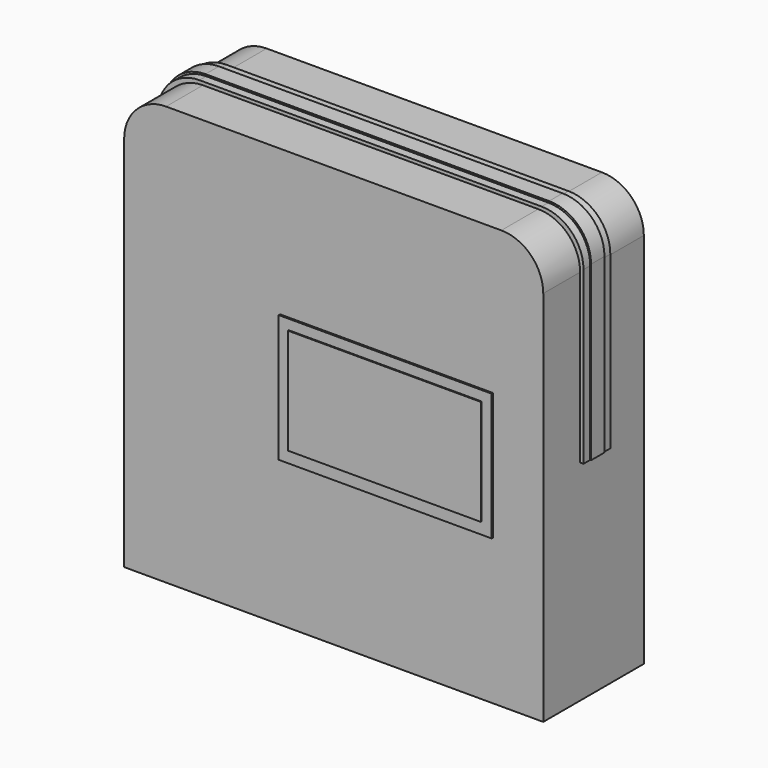
from build123d import *

# Parameters (mm, degrees)
F0_W      = 250
F0_H      = 75
F2_DEPTH  = 125
F1_W      = 254
F1_H      = 20
F3_DEPTH  = 127
F4_R      = 25
F5_W      = 255
F5_H      = 10
F6_DEPTH  = 128
F7_R      = 25
F8_W      = 127
F8_H      = 76
F9_DEPTH  = 1
F11_DEPTH = 0.6


with BuildPart() as f2:
    # F0 (on Top) → F2 (new body, symmetric)
    with BuildSketch(Plane.XY):
        Rectangle(F0_W, F0_H)
    extrude(amount=F2_DEPTH, both=True)

    # F1 (on Top) → F3 (join)
    with BuildSketch(Plane.XY):
        Rectangle(F1_W, F1_H)
    extrude(amount=F3_DEPTH)

    # F4
    f4_edges = [f2.edges().sort_by_distance(p)[0] for p in [
        (-127, 0, 127),
        (-125, 23.75, 125),
        (-125, -23.75, 125),
        (125, 23.75, 125),
        (125, -23.75, 125),
        (127, 0, 127),
    ]]
    fillet(f4_edges, radius=F4_R)

    # F5 (on Top) → F6 (join)
    with BuildSketch(Plane.XY):
        Rectangle(F5_W, F5_H)
    extrude(amount=F6_DEPTH)

    # F7
    f7_edges = [f2.edges().sort_by_distance(p)[0] for p in [
        (-127.5, 0, 128),
        (127.5, 0, 128),
    ]]
    fillet(f7_edges, radius=F7_R)

    # F8 (on face) → F9 (join)
    with BuildSketch(Plane.XZ.offset(37.5)):
        with Locations((31.5, 0)):
            Rectangle(F8_W, F8_H)
    extrude(amount=F9_DEPTH)

    # F10 (on face) → F11 (join)
    with BuildSketch(Plane.XZ.offset(38.5)):
        Polygon((-26, 32), (-26, -31), (89, -31), (89, 32), (76.5, 26), (-13.5, 26), align=None)
        Polygon((89, 32), (-26, 32), (-13.5, 26), (76.5, 26), align=None)
    extrude(amount=F11_DEPTH)


solid = f2.part
